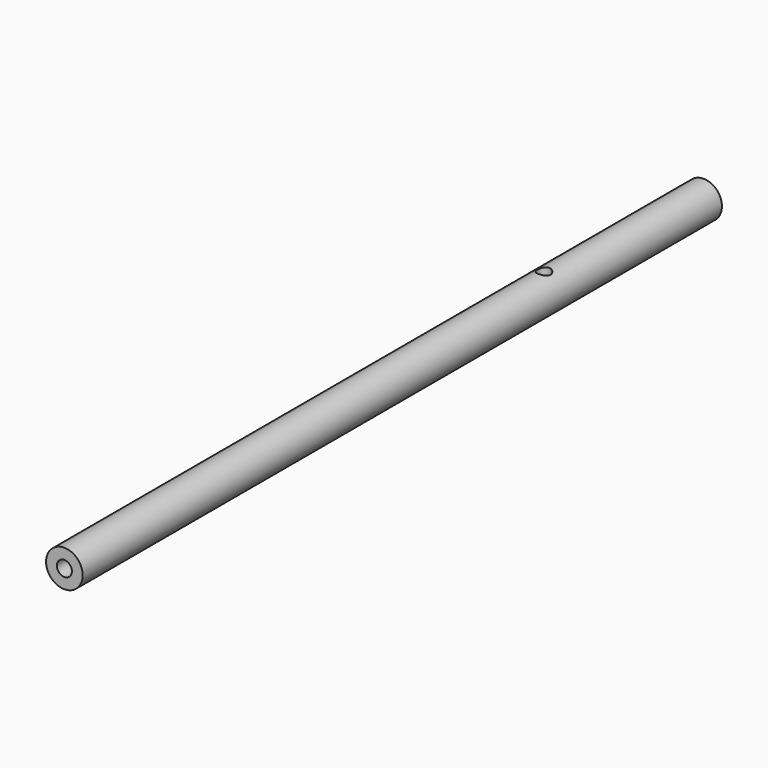
from build123d import *

# Parameters (mm, degrees)
F0_R     = 6.985
F1_DEPTH = 304.8
F3_D     = 5.7404
F3_DEPTH = 304.8
F3_TIP   = 1.7245901487
F5_D     = 5.08
F5_DEPTH = 25.4
F5_TIP   = 1.5261859723


with BuildPart() as f1:
    # F0 (on Front) → F1 (new body)
    with BuildSketch(Plane.XZ):
        Circle(F0_R)
    extrude(amount=F1_DEPTH)

    # F3
    with Locations(Plane(origin=(0, 0, 0), x_dir=(1, 0, 0), z_dir=(0, 1, 0))):
        with Locations((0, 0)):
            Hole(F3_D / 2, depth=F3_DEPTH)
            with Locations((0, 0, -(F3_DEPTH + F3_TIP / 2))):  # 118° drill point
                Cone(0, F3_D / 2, F3_TIP, mode=Mode.SUBTRACT)

    # F5 (one way)
    with BuildSketch(Plane(origin=(0, 0, 0), x_dir=(1, 0, 0), z_dir=(0, 0, -1))):
        with Locations((0, 76.1724114418)):
            Circle(F5_D / 2)
    extrude(amount=-F5_DEPTH, mode=Mode.SUBTRACT)
    with Locations(Plane(origin=(0, 0, 0), x_dir=(1, 0, 0), z_dir=(0, 0, -1))):
        with Locations((0, 76.1724114418)):
            with Locations((0, 0, -(F5_DEPTH + F5_TIP / 2))):  # 118° drill point
                Cone(0, F5_D / 2, F5_TIP, mode=Mode.SUBTRACT)


solid = f1.part
